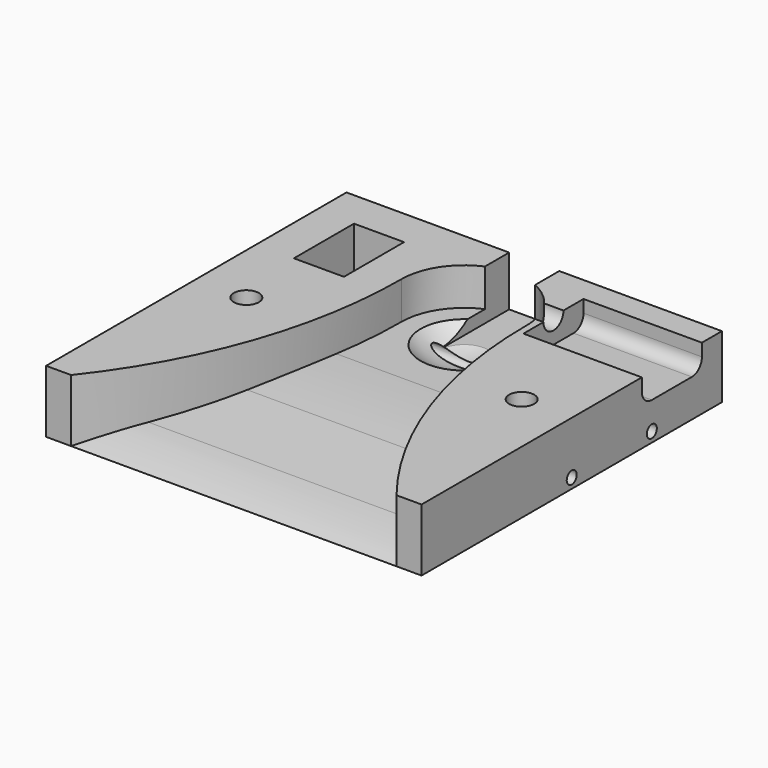
from build123d import *

# Parameters (mm, degrees)
F1_DEPTH  = 25
F3_DEPTH  = 150
F7_R      = 2.5
F8_DEPTH  = 150.001
F9_W      = 20
F9_H      = 30
F9_R      = 5
F9_H_2    = 35
F10_DEPTH = 20
F12_DEPTH = 47.3
F13_R     = 5
F14_DEPTH = 15.8


with BuildPart() as f1:
    # F0 (on Top) → F1 (new body)
    with BuildSketch(Plane.XY):
        with BuildLine():
            Line((75, 75), (-75, 75))
            Line((-75, 75), (-75, -75))
            Line((-75, -75), (-65, -75))
            ThreePointArc((-65, -75), (-35.2854373604, -20.8789783094), (-25, 40))
            ThreePointArc((-25, 40), (0, 65), (25, 40))
            ThreePointArc((25, 40), (35.2854373604, -20.8789783094), (65, -75))
            Line((65, -75), (75, -75))
            Line((75, -75), (75, 75))
        make_face()
    extrude(amount=F1_DEPTH)

    # F2 (on face) → F3 (join, through all)
    with BuildSketch(Plane(origin=(-75, 0, 0), x_dir=(0, -1, 0), z_dir=(-1, 0, 0))):
        with BuildLine():
            Line((-75, 10), (-75, 0))
            Line((-75, 0), (75, 0))
            ThreePointArc((75, 0), (64.7364457874, 2.863347323), (54.2264872704, 4.6183615505))
            Line((54.2264872704, 4.6183615505), (23.1799102031, 8.115113068))
            ThreePointArc((23.1799102031, 8.115113068), (6.4181072647, 9.5284076014), (-10.3965601359, 10))
            Line((-10.3965601359, 10), (-75, 10))
        make_face()
    extrude(amount=-F3_DEPTH)

    # F5 (on offset) → F6 (revolve, cut)
    with BuildSketch(Plane.XY.offset(28)):
        with BuildLine():
            Line((-25, 40), (25, 40))
            ThreePointArc((25, 40), (0, 65), (-25, 40))
        make_face()
    revolve(axis=Axis((0, 40, 28), (-1, 0, 0)), mode=Mode.SUBTRACT)

    # F7 (on face) → F8 (cut, through all)
    with BuildSketch(Plane.YZ.offset(75)):
        with Locations((40, 4)):
            Circle(F7_R)
        with Locations((0, 4)):
            Circle(F7_R)
    extrude(amount=-F8_DEPTH, mode=Mode.SUBTRACT)

    # F9 (on face) → F10 (cut)
    with BuildSketch(Plane.XY.offset(25)):
        with Locations((-50, 45)):
            Rectangle(F9_W, F9_H)
        with Locations((-55, 0)):
            Circle(F9_R)
        with Locations((55, 0)):
            Circle(F9_R)
        with Locations((0, 57.5)):
            Rectangle(F9_W, F9_H_2)
    extrude(amount=-F10_DEPTH, mode=Mode.SUBTRACT)

    # F11 (on face) → F12 (cut)
    with BuildSketch(Plane.YZ.offset(75)):
        with BuildLine():
            Line((65, 25), (35, 25))
            Line((35, 25), (35, 20))
            ThreePointArc((35, 20), (36.4644660941, 16.4644660941), (40, 15))
            Line((40, 15), (60, 15))
            ThreePointArc((60, 15), (63.5355339059, 16.4644660941), (65, 20))
            Line((65, 20), (65, 25))
        make_face()
    extrude(amount=-F12_DEPTH, mode=Mode.SUBTRACT)

    # F13 (on face) → F14 (cut)
    with BuildSketch(Plane.YZ.offset(27.7)):
        with Locations((50, 25)):
            Circle(F13_R)
    extrude(amount=-F14_DEPTH, mode=Mode.SUBTRACT)


solid = f1.part
